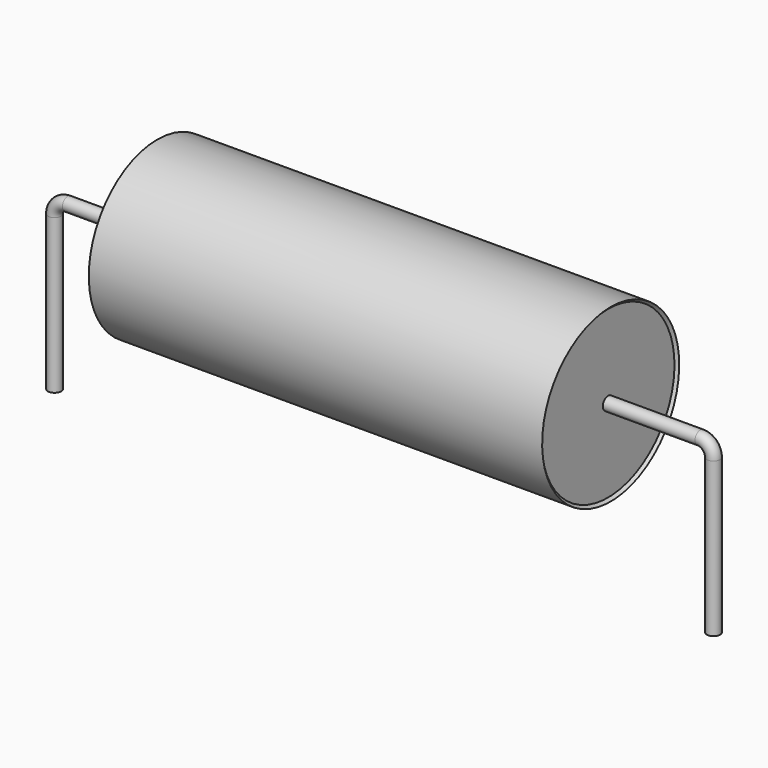
from build123d import *

# Parameters (mm, degrees)
SKETCH_R = 0.25


with BuildPart() as sweep_body:
    # Sweep: sweep along a path in Sketch001
    with BuildLine(Plane.XZ) as sweep_path:
        Line((0, -3), (0, 2.85))
        ThreePointArc((0, 2.85), (0.146443, 3.20355), (0.49999, 3.35))
        Line((0.49999, 3.35), (24.5, 3.35))
        ThreePointArc((24.5, 3.35), (24.853553, 3.203553), (25, 2.85))
        Line((25, 2.85), (25, -3))
    # Sketch → Sweep (sweep)
    with BuildSketch(Plane.XY.offset(-2)):
        Circle(SKETCH_R)
    sweep(path=sweep_path.line)


with BuildPart() as revolution:
    # Sketch002 → Revolution (revolve)
    with BuildSketch(Plane.XZ):
        Polygon((3.9, 6.6), (21.1, 6.6), (21, 6.5), (21, 3.35), (4, 3.35), (4, 6.5), align=None)
    revolve(axis=Axis((7.611803, 0, 3.35), (1, 0, 0)))


solid = Compound([sweep_body.part, revolution.part])
